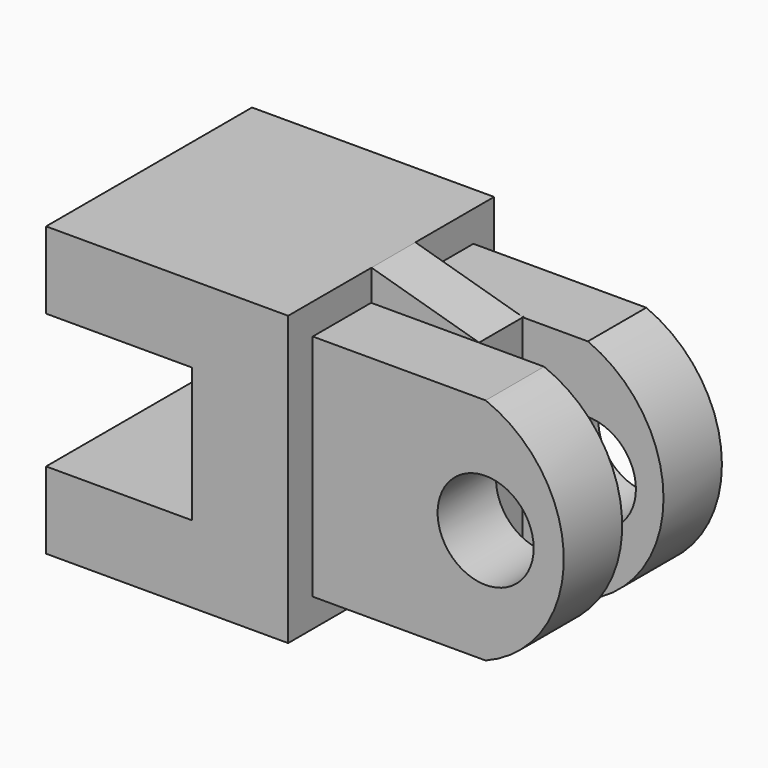
from build123d import *

# Parameters (mm, degrees)
F1_DEPTH  = 67
F2_W      = 19
F2_H      = 59.602782
F3_DEPTH  = 45
F4_W      = 19
F4_H      = 59.070988
F5_DEPTH  = 45
F7_DEPTH  = 19
F9_DEPTH  = 19
F10_W     = 28
F10_H     = 14.292508
F11_DEPTH = 66.9
F13_DEPTH = 14.4
F14_R     = 12.5
F15_DEPTH = 65.5


with BuildPart() as f1:
    # F0 (on Front) → F1 (new body)
    with BuildSketch(Plane.XZ):
        Polygon((0, 20), (0, 0), (63, 0), (63, 75), (0, 75), (0, 55), (38, 55), (38, 20), align=None)
    extrude(amount=F1_DEPTH)

    # F2 (on face) → F3 (join)
    with BuildSketch(Plane.YZ.offset(63)):
        with Locations((-49.5, 37.198609)):
            Rectangle(F2_W, F2_H)
    extrude(amount=F3_DEPTH)

    # F4 (on face) → F5 (join)
    with BuildSketch(Plane.YZ.offset(63)):
        with Locations((-16.24, 37.464506)):
            Rectangle(F4_W, F4_H)
    extrude(amount=F5_DEPTH)

    # F6 (on face) → F7 (join)
    with BuildSketch(Plane.XZ.offset(59)):
        with BuildLine():
            Line((108, 67), (108, 7.397218))
            ThreePointArc((108, 7.397218), (128.343367, 37.198609), (108, 67))
        make_face()
    extrude(amount=-F7_DEPTH)

    # F8 (on face) → F9 (join)
    with BuildSketch(Plane(origin=(0, -6.74, 0), x_dir=(-1, 0, 0), z_dir=(0, 1, 0))):
        with BuildLine():
            Line((-108, 7.929012), (-108, 67))
            ThreePointArc((-108, 67), (-127.685188, 37.464506), (-108, 7.929012))
        make_face()
    extrude(amount=-F9_DEPTH)

    # F10 (on face) → F11 (join)
    with BuildSketch(Plane.XY.offset(75)):
        with Locations((77, -32.735519)):
            Rectangle(F10_W, F10_H)
    extrude(amount=-F11_DEPTH)

    # F12 (on face) → F13 (cut)
    with BuildSketch(Plane.XZ.offset(39.881773)):
        Polygon((63, 75), (91, 66.942476), (91, 75), align=None)
    extrude(amount=-F13_DEPTH, mode=Mode.SUBTRACT)

    # F14 (on face) → F15 (cut)
    with BuildSketch(Plane.XZ.offset(59)):
        with Locations((108, 37.198609)):
            Circle(F14_R)
    extrude(amount=-F15_DEPTH, mode=Mode.SUBTRACT)


solid = f1.part
